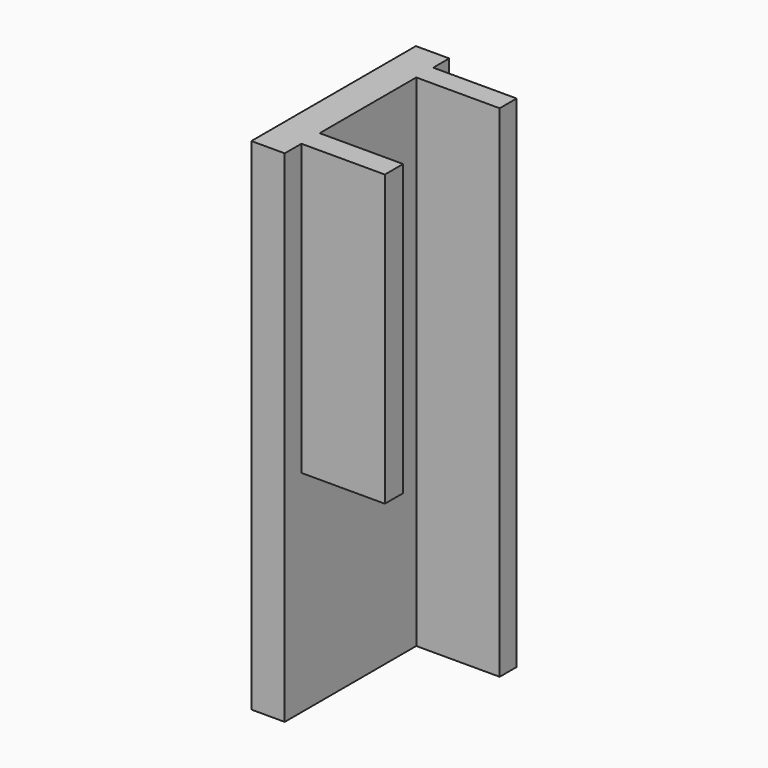
from build123d import *

# Parameters (mm, degrees)
F0_W     = 10
F0_H     = 41.6184230894
F0_H_2   = 20
F1_DEPTH = 150
F2_W     = 6.3547044992
F2_H     = 150
F2_W_2   = 6.8435370922
F2_H_2   = 86.8458472192
F3_DEPTH = 25


with BuildPart() as f1:
    # F0 (on Top) → F1 (new body)
    with BuildSketch(Plane.XY):
        with Locations((-14.8092108965, -1.3289477304)):
            Rectangle(F0_W, F0_H)
        with Locations((-14.8092108965, -32.1381592751)):
            Rectangle(F0_W, F0_H_2)
        with Locations((-14.8092108965, -1.3289477304)):
            Rectangle(F0_W, F0_H)
    extrude(amount=F1_DEPTH)

    # F2 (on face) → F3 (join)
    with BuildSketch(Plane.YZ.offset(-9.8092108965)):
        with Locations((10.3059485555, 75)):
            Rectangle(F2_W, F2_H)
        with Locations((-32.4661172926, 106.5770763904)):
            Rectangle(F2_W_2, F2_H_2)
    extrude(amount=F3_DEPTH)


solid = f1.part
